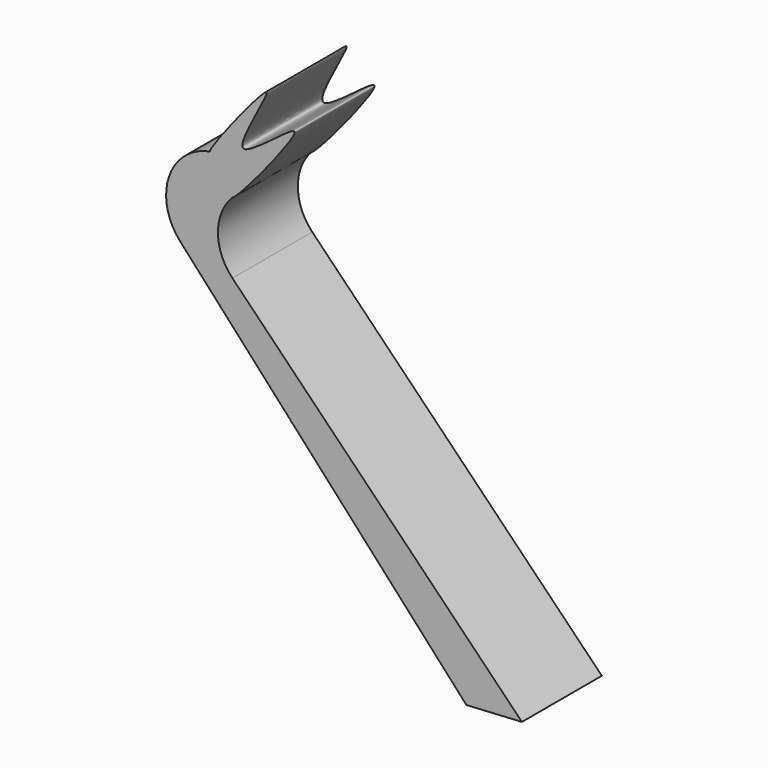
from build123d import *

# Parameters (mm, degrees)
F1_DEPTH = 25.4


with BuildPart() as f1:
    # F0 (on Front) → F1 (new body)
    with BuildSketch(Plane.XZ):
        with BuildLine():
            Line((-24.7229542583, 3.939371556), (48.0875074863, -76.2064680457))
            Line((48.0875074863, -76.2064680457), (62.217541039, -75.3978565335))
            Line((62.217541039, -75.3978565335), (-11.4110792056, 0))
            ThreePointArc((-11.4110792056, 0), (-15.0896624548, 9.0321535245), (-11.4110792056, 18.0643070489))
            add(Edge.make_bspline(
                [(-17.116619274, 26.4867711812), (-16.7788120486, 26.060696821), (-4.6906614506, 38.6427814927), (-15.7910114784, 17.6552812131), (0.9698560295, 37.008144079), (-11.9217907097, 18.4395287861), (-11.4110792056, 18.0643070489)],
                knots=[0, 0, 0, 0, 0.1018986592, 0.1967794037, 0.2916601283, 0.4107647406, 0.4107647406, 0.4107647406, 0.4107647406], degree=3))
            ThreePointArc((-17.116619274, 26.4867711812), (-27.5467427774, 17.4486660796), (-24.7229542583, 3.939371556))
        make_face()
        with BuildLine():
            add(Edge.make_bspline(
                [(-11.4110792056, 18.0643070489), (-10.6918454686, 17.5358832126), (17.6519428922, 51.6717596608), (-18.2449450087, 18.6659869435), (7.9495540575, 59.5092377708), (-17.6464474603, 27.1550405032), (-17.116619274, 26.4867711812)],
                knots=[0.4107647406, 0.4107647406, 0.4107647406, 0.4107647406, 0.5784994689, 0.7085870288, 0.8401787241, 1, 1, 1, 1], degree=3))
            add(Edge.make_bspline(
                [(-17.116619274, 26.4867711812), (-16.7788120486, 26.060696821), (-4.6906614506, 38.6427814927), (-15.7910114784, 17.6552812131), (0.9698560295, 37.008144079), (-11.9217907097, 18.4395287861), (-11.4110792056, 18.0643070489)],
                knots=[0, 0, 0, 0, 0.1018986592, 0.1967794037, 0.2916601283, 0.4107647406, 0.4107647406, 0.4107647406, 0.4107647406], degree=3))
        make_face()
    extrude(amount=F1_DEPTH)


solid = f1.part
